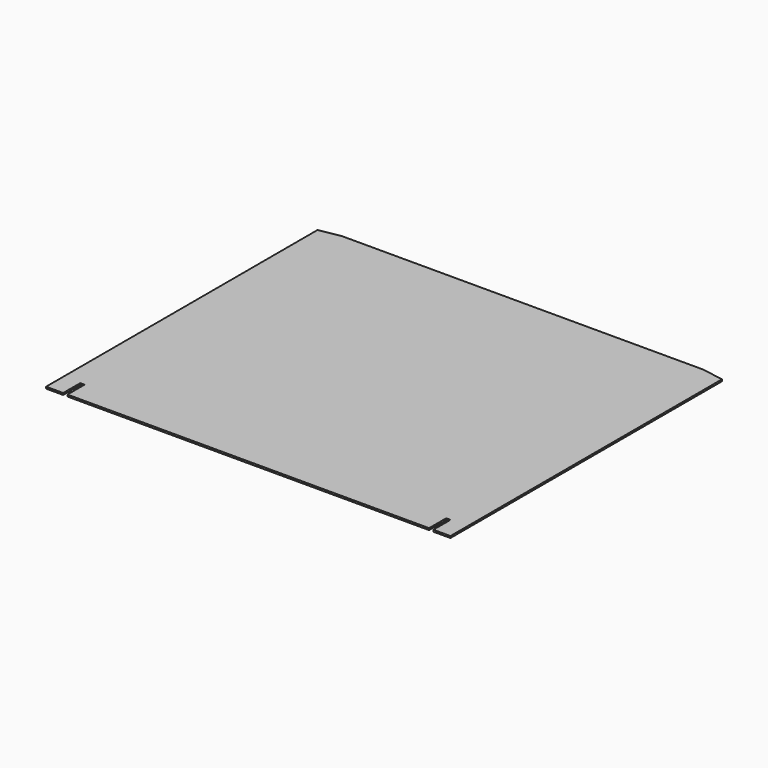
from build123d import *

# Parameters (mm, degrees)
F0_W     = 322.58
F0_H     = 287.02
F0_H_2   = 19.05
F0_W_2   = 15.24
F1_DEPTH = 1.5875


with BuildPart() as f1:
    # F0 (on Top) → F1 (new body)
    with BuildSketch(Plane.XY):
        Rectangle(F0_W, F0_H)
        with Locations((0, -153.035)):
            Rectangle(F0_W, F0_H_2)
        Polygon((-161.29, -143.51), (-161.29, 143.51), (-180.34, 140.150971), (-180.34, -143.51), (-165.1, -143.51), align=None)
        with Locations((-172.72, -153.035)):
            Rectangle(F0_W_2, F0_H_2)
        with Locations((172.72, -153.035)):
            Rectangle(F0_W_2, F0_H_2)
        Polygon((180.34, 140.150971), (161.29, 143.51), (161.29, -143.51), (165.1, -143.51), (180.34, -143.51), align=None)
    extrude(amount=F1_DEPTH)


solid = f1.part
